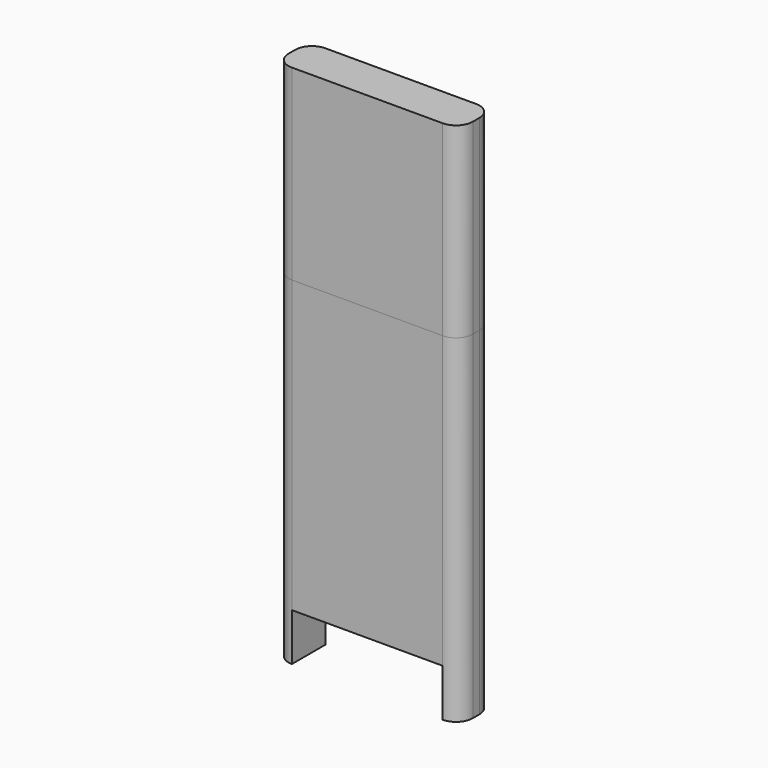
from build123d import *

# Parameters (mm, degrees)
F0_W     = 55.9842921793
F0_H     = 102.7474403381
F1_DEPTH = 12.7
F2_R     = 5.08
F3_W     = 45.8242921793
F3_H     = 14.4344866276
F4_DEPTH = 25.4
F8_DEPTH = 56.8421371281


with BuildPart() as f1:
    # F0 (on Front) → F1 (new body)
    with BuildSketch(Plane.XZ):
        Rectangle(F0_W, F0_H)
    extrude(amount=F1_DEPTH)

    # F2
    f2_edges = [f1.edges().sort_by_distance(p)[0] for p in [
        (27.992146, -12.7, 0),
        (27.992146, 0, 0),
        (-27.992146, -12.7, 0),
        (-27.992146, 0, 0),
    ]]
    fillet(f2_edges, radius=F2_R)

    # F3 (on face) → F4 (cut)
    with BuildSketch(Plane.XZ.offset(12.7)):
        with Locations((0, -44.1564768553)):
            Rectangle(F3_W, F3_H)
    extrude(amount=-F4_DEPTH, mode=Mode.SUBTRACT)

    # F8 (add): a face of the model
    f8_faces = [f1.faces().sort_by_distance(p)[0] for p in [
        (0, -6.35, 51.3737201691),
    ]]
    extrude(f8_faces, amount=F8_DEPTH)


solid = f1.part
